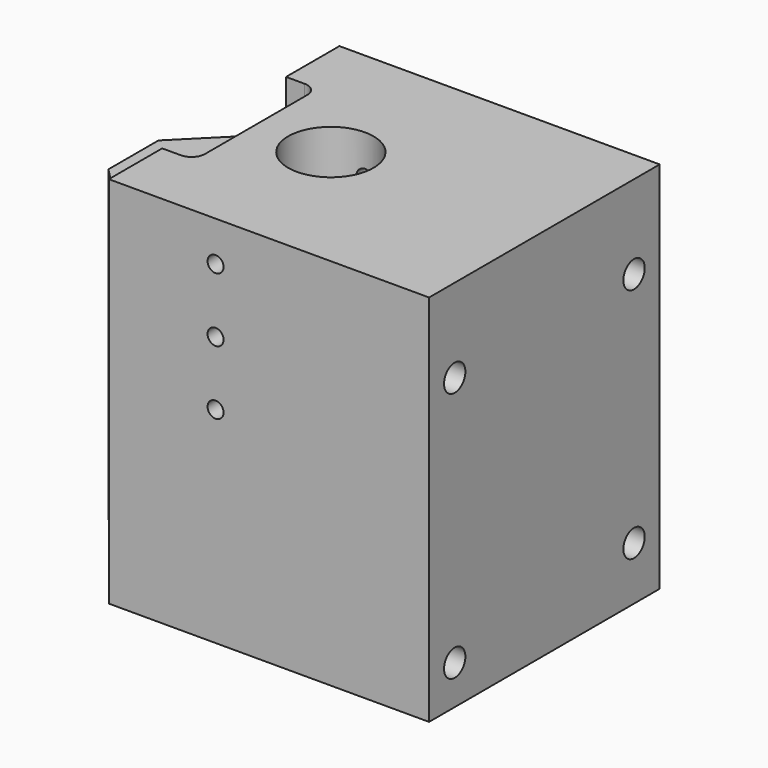
from build123d import *

# Parameters (mm, degrees)
F0_W      = 140
F0_H      = 154
F1_DEPTH  = 54
F2_R      = 16
F3_DEPTH  = 140.001
F5_DEPTH  = 140.001
F6_W      = 25
F6_H      = 58
F7_DEPTH  = 46
F8_R      = 5
F9_ANGLE  = 270
F14_R     = 8
F15_DEPTH = 45
F16_R     = 5
F17_DEPTH = 120.001
F18_R     = 3
F19_DEPTH = 108.001


with BuildPart() as f1:
    # F0 (on Front) → F1 (new body, symmetric)
    with BuildSketch(Plane.XZ):
        with Locations((70, 0)):
            Rectangle(F0_W, F0_H)
    extrude(amount=F1_DEPTH, both=True)

    # F2 (on face) → F3 (cut, through all)
    with BuildSketch(Plane(origin=(0, 0, 0), x_dir=(0, -1, 0), z_dir=(-1, 0, 0))):
        with Locations((0, 48)):
            Circle(F2_R)
        with Locations((0, 3)):
            Circle(F2_R)
    extrude(amount=-F3_DEPTH, mode=Mode.SUBTRACT)

    # F4 (on face) → F5 (cut, through all)
    with BuildSketch(Plane(origin=(0, 0, 0), x_dir=(0, -1, 0), z_dir=(-1, 0, 0))):
        Polygon((-54, 77), (-54, 43), (-29, 43), (-29, 59.7311109304), (-11.6953058452, 77.0358050852), align=None)
        Polygon((54, 77), (11.6953058452, 77.0358050852), (29, 59.7311109304), (29, 43), (54, 43), align=None)
    extrude(amount=-F5_DEPTH, mode=Mode.SUBTRACT)

    # F6 (on face) → F7 (cut)
    with BuildSketch(Plane.XY.offset(77)):
        with Locations((127.5, 0)):
            Rectangle(F6_W, F6_H)
    extrude(amount=-F7_DEPTH, mode=Mode.SUBTRACT)

    # F8
    f8_edges = [f1.edges().sort_by_distance(p)[0] for p in [
        (127.5, -29, 31),
        (127.5, 29, 31),
    ]]
    fillet(f8_edges, radius=F8_R)


with BuildPart() as f1_1:
    # F9: moved
    add(f1.part.rotate(Axis((0, 0, -77), (0, 1, 0)), F9_ANGLE))


with BuildPart() as f1_2:
    # F11: moved
    add(f1_1.part.moved(Location((154, 0, 0))))


with BuildPart() as f1_3:
    # F13: moved
    add(f1_2.part.moved(Location((0, 0, 7))))

    # F14 (on face) → F15 (cut)
    with BuildSketch(Plane(origin=(0, 0, 0), x_dir=(0, -1, 0), z_dir=(-1, 0, 0))):
        with Locations((42, 38.6609129925)):
            Circle(F14_R)
        with Locations((-42, 38.6609129925)):
            Circle(F14_R)
        with Locations((42, -55.3390870075)):
            Circle(F14_R)
        with Locations((-42, -50)):
            Circle(F14_R)
    extrude(amount=-F15_DEPTH, mode=Mode.SUBTRACT)

    # F16 (on face) → F17 (cut, through all)
    with BuildSketch(Plane(origin=(34, 0, 0), x_dir=(0, -1, 0), z_dir=(-1, 0, 0))):
        with Locations((-42, -50)):
            Circle(F16_R)
        with Locations((-42, 38.6609129925)):
            Circle(F16_R)
        with Locations((42, 38.6609129925)):
            Circle(F16_R)
        with Locations((42, -55.3390870075)):
            Circle(F16_R)
    extrude(amount=-F17_DEPTH, mode=Mode.SUBTRACT)

    # F18 (on face) → F19 (cut, through all)
    with BuildSketch(Plane.XZ.offset(54)):
        with Locations((29, -55)):
            Circle(F18_R)
        with Locations((29, -31)):
            Circle(F18_R)
        with Locations((29, -7)):
            Circle(F18_R)
        with Locations((74, 55)):
            Circle(F18_R)
        with Locations((74, 31)):
            Circle(F18_R)
        with Locations((74, 7)):
            Circle(F18_R)
    extrude(amount=-F19_DEPTH, mode=Mode.SUBTRACT)


solid = f1_3.part
